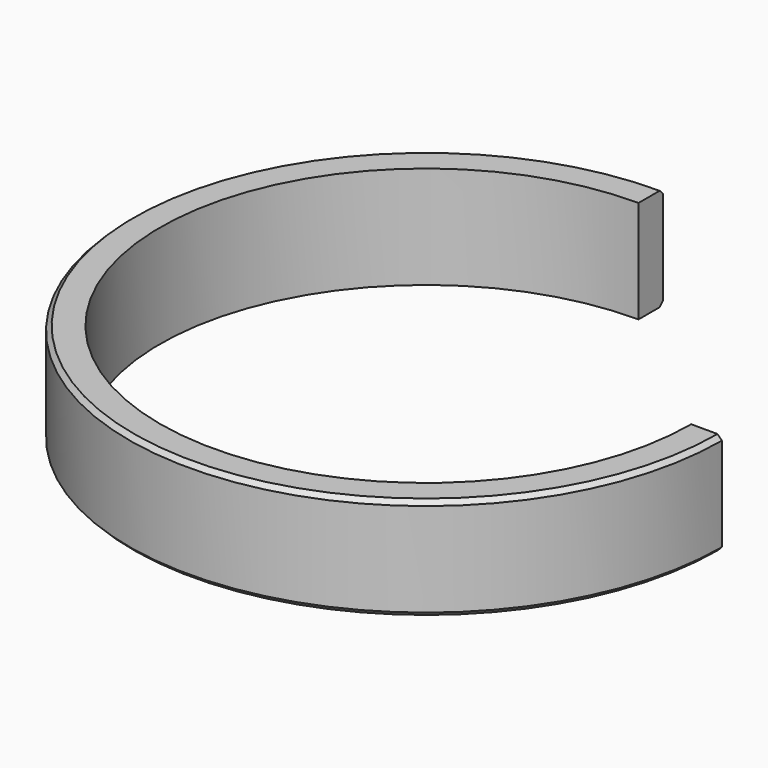
from build123d import *

# Parameters (mm, degrees)
F1_DEPTH = 7
F2_SIZE  = 0.3


with BuildPart() as f1:
    # F0 (on Top) → F1 (new body)
    with BuildSketch(Plane.XY):
        with BuildLine():
            ThreePointArc((18.1499434266, -0.0453168044), (-12.85, -12.8179561553), (0, 18.15))
            Line((0, 18.15), (0, 20.25))
            ThreePointArc((0, 20.25), (-14.3367768595, -14.3010254626), (20.2499368809, -0.050560071))
            Line((20.2499368809, -0.050560071), (18.1499434266, -0.0453168044))
        make_face()
    extrude(amount=F1_DEPTH)

    # F2
    f2_edges = [f1.edges().sort_by_distance(p)[0] for p in [
        (-14.336777, -14.301025, 7),
        (-14.336777, -14.301025, 0),
    ]]
    chamfer(f2_edges, length=F2_SIZE)


solid = f1.part
